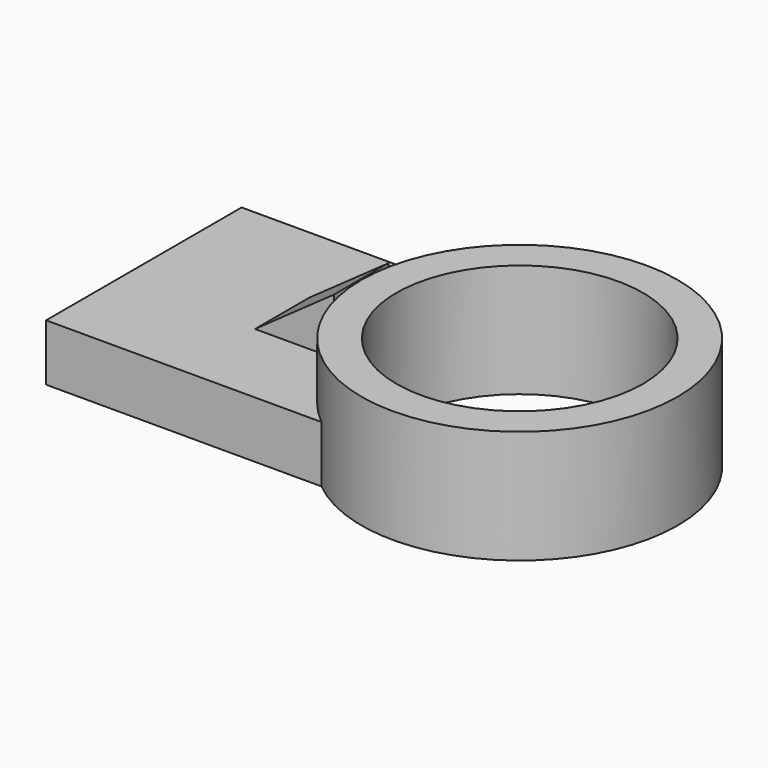
from build123d import *

# Parameters (mm, degrees)
F2_DEPTH = 25
F1_R     = 69.760615
F4_DEPTH = 50
F3_R     = 54.399764
F5_DEPTH = 50
F7_DEPTH = 15


with BuildPart() as f2:
    # F0 (on Top) → F2 (new body)
    with BuildSketch(Plane.XY):
        with BuildLine():
            Line((61.027482, 53.90365), (-61.027482, 53.90365))
            Line((-61.027482, 53.90365), (-61.027482, -53.90365))
            Line((-61.027482, -53.90365), (61.027482, -53.90365))
            ThreePointArc((61.027482, -53.90365), (35.531112, 0), (61.027482, 53.90365))
        make_face()
    extrude(amount=F2_DEPTH)

    # F1 (on Top) → F4 (join)
    with BuildSketch(Plane.XY):
        with Locations((104.720309, 0)):
            Circle(F1_R)
    extrude(amount=F4_DEPTH)

    # F3 (on Top) → F5 (cut)
    with BuildSketch(Plane.XY):
        with Locations((104.77522, 0)):
            Circle(F3_R)
    extrude(amount=F5_DEPTH, mode=Mode.SUBTRACT)


with BuildPart() as f7:
    # F6 (on Front) → F7 (new body)
    with BuildSketch(Plane.XZ):
        Polygon((34.814257, 25.663083), (34.814257, 50.33147), (0, 25.663083), align=None)
    extrude(amount=F7_DEPTH)

    # F8: F7 across face


with BuildPart() as f7_1:
    add(f7.part)
    add(f7.part.mirror(Plane(origin=(23.209505, 0, 33.885879), x_dir=(1, 0, 0), z_dir=(0, 1, 0))))


solid = Compound([f2.part, f7_1.part])
